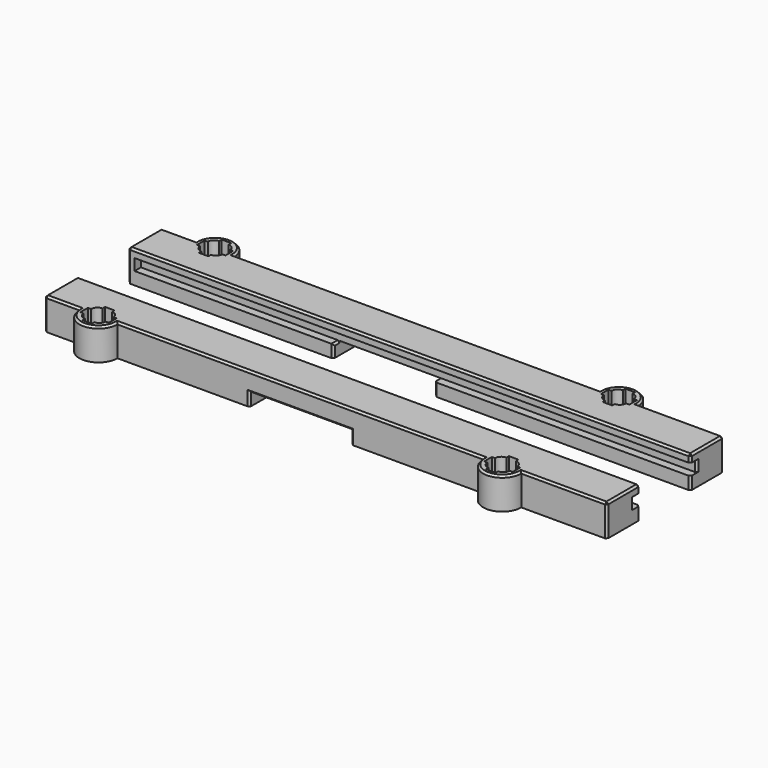
from build123d import *

# Parameters (mm, degrees)
PAD_DEPTH               = 10
CLONE2D004_W            = 175.4318
CLONE2D004_H            = 3.6
POCKET_DEPTH            = 2.5
CLONE2D003_W            = 2
CLONE2D003_H            = 13
PAD001_DEPTH            = 10
CLONE2D001_R            = 5
POCKET001_DEPTH         = 2
POCKET002_DEPTH         = 10.001
SKETCH025_W             = 32
SKETCH025_H             = 13
POCKET006_DEPTH         = 4
CHAMFER_SIZE            = 0.6
PAD002_DEPTH            = 10
CLONE2D009_W            = 175.4318
CLONE2D009_H            = 3.6
POCKET003_DEPTH         = 2.5
CLONE2D008_W            = 2
CLONE2D008_H            = 13
PAD003_DEPTH            = 10
CLONE2D006_R            = 5
POCKET004_DEPTH         = 2
POCKET005_DEPTH         = 10.001
SKETCH026_W             = 32
SKETCH026_H             = 13
POCKET007_DEPTH         = 4
CHAMFER001_SIZE         = 0.6
BODY001_PLACEMENT_ANGLE = 180


with BuildPart() as obj1:
    # Clone2D002 → Pad (new body)
    with BuildSketch(Plane.XY):
        with BuildLine():
            ThreePointArc((69.7159, 13), (63.7159, 19), (57.7159, 13))
            Line((57.7159, 13), (-57.7159, 13))
            ThreePointArc((-57.7159, 13), (-63.7159, 19), (-69.7159, 13))
            Line((-69.7159, 13), (-78.7159, 13))
            Line((-78.7159, 13), (-78.7159, 0))
            Line((-78.7159, 0), (96.7159, 0))
            Line((96.7159, 0), (96.7159, 13))
            Line((96.7159, 13), (69.7159, 13))
        make_face()
    extrude(amount=PAD_DEPTH)

    # Clone2D004 → Pocket (cut)
    with BuildSketch(Plane.XZ):
        with Locations((9, 5.8)):
            Rectangle(CLONE2D004_W, CLONE2D004_H)
    extrude(amount=-POCKET_DEPTH, mode=Mode.SUBTRACT)

    # Clone2D003 → Pad001 (join)
    with BuildSketch(Plane.XY):
        with Locations((-79.7159, 6.5)):
            Rectangle(CLONE2D003_W, CLONE2D003_H)
    extrude(amount=PAD001_DEPTH)

    # Clone2D001 → Pocket001 (cut)
    with BuildSketch(Plane.XY):
        with Locations((-63.7159, 13)):
            Circle(CLONE2D001_R)
        with Locations((63.7159, 13)):
            Circle(CLONE2D001_R)
    extrude(amount=POCKET001_DEPTH, mode=Mode.SUBTRACT)

    # Clone2D → Pocket002 (cut, through all)
    with BuildSketch(Plane.XY):
        with BuildLine():
            Line((-67.2159, 11.5), (-68.2159, 11.5))
            Line((-68.2159, 11.5), (-68.2159, 13))
            Line((-68.2159, 13), (-68.2159, 14.5))
            Line((-68.2159, 14.5), (-67.2159, 14.5))
            ThreePointArc((-67.2159, 14.5), (-66.630114, 15.914214), (-65.2159, 16.5))
            Line((-65.2159, 16.5), (-65.2159, 17.5))
            Line((-65.2159, 17.5), (-63.7159, 17.5))
            Line((-63.7159, 17.5), (-62.2159, 17.5))
            Line((-62.2159, 17.5), (-62.2159, 16.5))
            ThreePointArc((-62.2159, 16.5), (-60.801686, 15.914214), (-60.2159, 14.5))
            Line((-60.2159, 14.5), (-59.2159, 14.5))
            Line((-59.2159, 14.5), (-59.2159, 13))
            Line((-59.2159, 13), (-59.2159, 11.5))
            Line((-59.2159, 11.5), (-60.2159, 11.5))
            ThreePointArc((-60.2159, 11.5), (-60.801686, 10.085786), (-62.2159, 9.5))
            Line((-62.2159, 9.5), (-62.2159, 8.5))
            Line((-62.2159, 8.5), (-63.7159, 8.5))
            Line((-63.7159, 8.5), (-65.2159, 8.5))
            Line((-65.2159, 8.5), (-65.2159, 9.5))
            ThreePointArc((-65.2159, 9.5), (-66.630114, 10.085786), (-67.2159, 11.5))
        make_face()
        with BuildLine():
            Line((68.2159, 13), (68.2159, 14.5))
            Line((68.2159, 14.5), (67.2159, 14.5))
            ThreePointArc((67.2159, 14.5), (66.630114, 15.914214), (65.2159, 16.5))
            Line((65.2159, 16.5), (65.2159, 17.5))
            Line((65.2159, 17.5), (63.7159, 17.5))
            Line((63.7159, 17.5), (62.2159, 17.5))
            Line((62.2159, 17.5), (62.2159, 16.5))
            ThreePointArc((62.2159, 16.5), (60.801686, 15.914214), (60.2159, 14.5))
            Line((60.2159, 14.5), (59.2159, 14.5))
            Line((59.2159, 14.5), (59.2159, 13))
            Line((59.2159, 13), (59.2159, 11.5))
            Line((59.2159, 11.5), (60.2159, 11.5))
            ThreePointArc((60.2159, 11.5), (60.801686, 10.085786), (62.2159, 9.5))
            Line((62.2159, 9.5), (62.2159, 8.5))
            Line((62.2159, 8.5), (63.7159, 8.5))
            Line((63.7159, 8.5), (65.2159, 8.5))
            Line((65.2159, 8.5), (65.2159, 9.5))
            ThreePointArc((65.2159, 9.5), (66.630114, 10.085786), (67.2159, 11.5))
            Line((67.2159, 11.5), (68.2159, 11.5))
            Line((68.2159, 11.5), (68.2159, 13))
        make_face()
    extrude(amount=POCKET002_DEPTH, mode=Mode.SUBTRACT)

    # Sketch025 → Pocket006 (cut)
    with BuildSketch(Plane.XY):
        with Locations((0, 6.5)):
            Rectangle(SKETCH025_W, SKETCH025_H)
    extrude(amount=POCKET006_DEPTH, mode=Mode.SUBTRACT)

    # Chamfer
    chamfer_edges = [obj1.edges().sort_by_distance(p)[0] for p in [
        (0, 13, 4),
        (16, 13, 2),
        (-16, 13, 2),
        (0, 13, 10),
        (63.7159, 19, 10),
        (-63.7159, 19, 10),
        (-75.2159, 13, 10),
        (-80.7159, 13, 5),
        (-80.7159, 6.5, 10),
        (8, 0, 10),
        (96.7159, 0, 2),
        (96.7159, 0, 8.8),
        (96.7159, 13, 5),
        (96.7159, 6.5, 10),
        (83.2159, 13, 10),
        (-80.7159, 0, 5),
        (96.7159, 2.5, 5.8),
        (-16, 0, 2),
        (16, 0, 2),
        (-16, 1.25, 4),
    ]]
    chamfer(chamfer_edges, length=CHAMFER_SIZE)


with BuildPart() as obj1_1:
    # Body placement: moved
    add(obj1.part.moved(Location((0, 10, 0))))


with BuildPart() as obj2:
    # Clone2D007 → Pad002 (new body)
    with BuildSketch(Plane.XY):
        with BuildLine():
            ThreePointArc((69.7159, 13), (63.7159, 19), (57.7159, 13))
            Line((57.7159, 13), (-57.7159, 13))
            ThreePointArc((-57.7159, 13), (-63.7159, 19), (-69.7159, 13))
            Line((-69.7159, 13), (-96.7159, 13))
            Line((-96.7159, 13), (-96.7159, 0))
            Line((-96.7159, 0), (78.7159, 0))
            Line((78.7159, 0), (78.7159, 13))
            Line((78.7159, 13), (69.7159, 13))
        make_face()
    extrude(amount=PAD002_DEPTH)

    # Clone2D009 → Pocket003 (cut)
    with BuildSketch(Plane.XZ):
        with Locations((-9, 5.8)):
            Rectangle(CLONE2D009_W, CLONE2D009_H)
    extrude(amount=-POCKET003_DEPTH, mode=Mode.SUBTRACT)

    # Clone2D008 → Pad003 (join)
    with BuildSketch(Plane.XY):
        with Locations((79.7159, 6.5)):
            Rectangle(CLONE2D008_W, CLONE2D008_H)
    extrude(amount=PAD003_DEPTH)

    # Clone2D006 → Pocket004 (cut)
    with BuildSketch(Plane.XY):
        with Locations((-63.7159, 13)):
            Circle(CLONE2D006_R)
        with Locations((63.7159, 13)):
            Circle(CLONE2D006_R)
    extrude(amount=POCKET004_DEPTH, mode=Mode.SUBTRACT)

    # Clone2D005 → Pocket005 (cut, through all)
    with BuildSketch(Plane.XY):
        with BuildLine():
            Line((-67.2159, 11.5), (-68.2159, 11.5))
            Line((-68.2159, 11.5), (-68.2159, 13))
            Line((-68.2159, 13), (-68.2159, 14.5))
            Line((-68.2159, 14.5), (-67.2159, 14.5))
            ThreePointArc((-67.2159, 14.5), (-66.630114, 15.914214), (-65.2159, 16.5))
            Line((-65.2159, 16.5), (-65.2159, 17.5))
            Line((-65.2159, 17.5), (-63.7159, 17.5))
            Line((-63.7159, 17.5), (-62.2159, 17.5))
            Line((-62.2159, 17.5), (-62.2159, 16.5))
            ThreePointArc((-62.2159, 16.5), (-60.801686, 15.914214), (-60.2159, 14.5))
            Line((-60.2159, 14.5), (-59.2159, 14.5))
            Line((-59.2159, 14.5), (-59.2159, 13))
            Line((-59.2159, 13), (-59.2159, 11.5))
            Line((-59.2159, 11.5), (-60.2159, 11.5))
            ThreePointArc((-60.2159, 11.5), (-60.801686, 10.085786), (-62.2159, 9.5))
            Line((-62.2159, 9.5), (-62.2159, 8.5))
            Line((-62.2159, 8.5), (-63.7159, 8.5))
            Line((-63.7159, 8.5), (-65.2159, 8.5))
            Line((-65.2159, 8.5), (-65.2159, 9.5))
            ThreePointArc((-65.2159, 9.5), (-66.630114, 10.085786), (-67.2159, 11.5))
        make_face()
        with BuildLine():
            Line((68.2159, 13), (68.2159, 14.5))
            Line((68.2159, 14.5), (67.2159, 14.5))
            ThreePointArc((67.2159, 14.5), (66.630114, 15.914214), (65.2159, 16.5))
            Line((65.2159, 16.5), (65.2159, 17.5))
            Line((65.2159, 17.5), (63.7159, 17.5))
            Line((63.7159, 17.5), (62.2159, 17.5))
            Line((62.2159, 17.5), (62.2159, 16.5))
            ThreePointArc((62.2159, 16.5), (60.801686, 15.914214), (60.2159, 14.5))
            Line((60.2159, 14.5), (59.2159, 14.5))
            Line((59.2159, 14.5), (59.2159, 13))
            Line((59.2159, 13), (59.2159, 11.5))
            Line((59.2159, 11.5), (60.2159, 11.5))
            ThreePointArc((60.2159, 11.5), (60.801686, 10.085786), (62.2159, 9.5))
            Line((62.2159, 9.5), (62.2159, 8.5))
            Line((62.2159, 8.5), (63.7159, 8.5))
            Line((63.7159, 8.5), (65.2159, 8.5))
            Line((65.2159, 8.5), (65.2159, 9.5))
            ThreePointArc((65.2159, 9.5), (66.630114, 10.085786), (67.2159, 11.5))
            Line((67.2159, 11.5), (68.2159, 11.5))
            Line((68.2159, 11.5), (68.2159, 13))
        make_face()
    extrude(amount=POCKET005_DEPTH, mode=Mode.SUBTRACT)

    # Sketch026 → Pocket007 (cut)
    with BuildSketch(Plane.XY):
        with Locations((0, 6.5)):
            Rectangle(SKETCH026_W, SKETCH026_H)
    extrude(amount=POCKET007_DEPTH, mode=Mode.SUBTRACT)

    # Chamfer001
    chamfer001_edges = [obj2.edges().sort_by_distance(p)[0] for p in [
        (-16, 0, 2),
        (16, 0, 2),
        (-16, 1.25, 4),
        (80.7159, 0, 5),
        (80.7159, 6.5, 10),
        (-8, 0, 10),
        (-96.7159, 0, 2),
        (-96.7159, 2.5, 5.8),
        (-96.7159, 0, 8.8),
        (-96.7159, 13, 5),
        (-96.7159, 6.5, 10),
        (-83.2159, 13, 10),
        (0, 13, 10),
        (-63.7159, 19, 10),
        (0, 13, 4),
        (16, 13, 2),
        (-16, 13, 2),
        (63.7159, 19, 10),
        (75.2159, 13, 10),
        (80.7159, 13, 5),
    ]]
    chamfer(chamfer001_edges, length=CHAMFER001_SIZE)


with BuildPart() as obj2_1:
    # Body001 placement: moved
    add(obj2.part.moved(Location((0, -10, 0))).rotate(Axis((0, -10, 0), (0, 0, 1)), BODY001_PLACEMENT_ANGLE))


solid = Compound([obj1_1.part, obj2_1.part])
